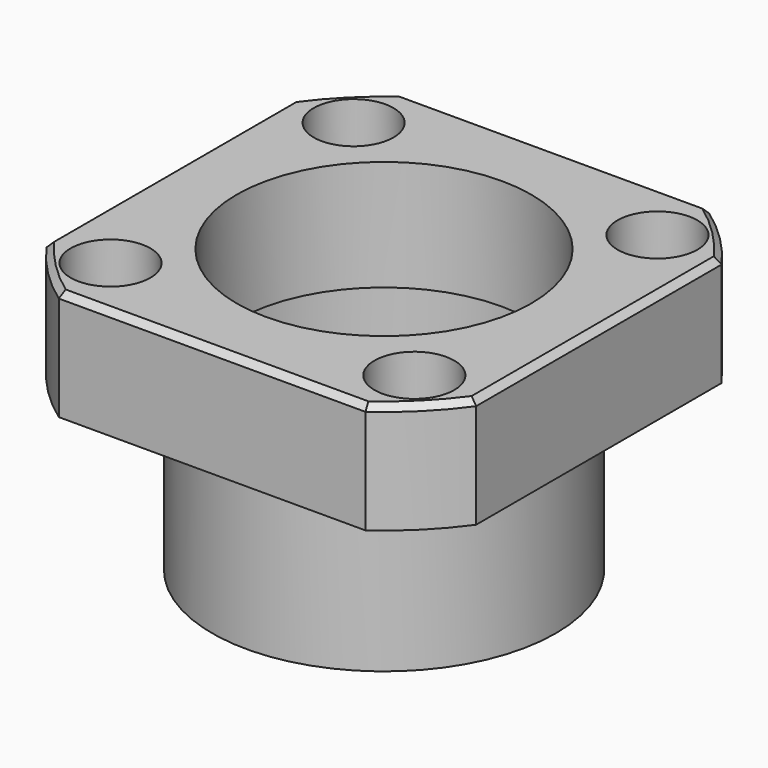
from build123d import *

# Parameters (mm, degrees)
F0_W           = 35
F0_H           = 35
F1_DEPTH       = 9
F2_R           = 14
F2_R_2         = 13
F3_DEPTH       = 14
F4_DEPTH       = 9.001
F6_D           = 3.4
F6_CBORE_D     = 6.5
F6_CBORE_DEPTH = 4
F7_DEPTH       = 23.001
F8_R           = 14
F8_R_2         = 12
F9_DEPTH       = 9
F10_SIZE       = 0.5


with BuildPart() as f1:
    # F0 (on Top) → F1 (new body)
    with BuildSketch(Plane.XY):
        Rectangle(F0_W, F0_H)
    extrude(amount=F1_DEPTH)

    # F2 (on face) → F3 (join)
    with BuildSketch(Plane(origin=(0, 0, 0), x_dir=(1, 0, 0), z_dir=(0, 0, -1))):
        Circle(F2_R)
        Circle(F2_R_2, mode=Mode.SUBTRACT)
    extrude(amount=F3_DEPTH)

    # F4 (cut, through all): a face of the model
    f4_faces = [f1.faces().sort_by_distance(p)[0] for p in [
        (0, 0, 0),
    ]]
    extrude(f4_faces, amount=-F4_DEPTH, mode=Mode.SUBTRACT)

    # F6 (through all)
    with Locations(Plane.XY.offset(9)):
        with Locations((-12.3743686708, 12.3743686708), (12.3743686708, 12.3743686708), (-12.3743686708, -12.3743686708), (12.3743686708, -12.3743686708)):
            CounterBoreHole(F6_D / 2, F6_CBORE_D / 2, F6_CBORE_DEPTH)

    # F5 (on face) → F7 (cut, through all)
    with BuildSketch(Plane.XY.offset(9)):
        with BuildLine():
            ThreePointArc((12.4899959968, 17.5), (15.2027957955, 15.2027957955), (17.5, 12.4899959968))
            Line((17.5, 12.4899959968), (17.5, 17.5))
            Line((17.5, 17.5), (12.4899959968, 17.5))
        make_face()
        with BuildLine():
            ThreePointArc((-17.5, 12.4899959968), (-15.2027957955, 15.2027957955), (-12.4899959968, 17.5))
            Line((-12.4899959968, 17.5), (-17.5, 17.5))
            Line((-17.5, 17.5), (-17.5, 12.4899959968))
        make_face()
        with BuildLine():
            Line((-17.5, -17.5), (-12.4899959968, -17.5))
            ThreePointArc((-12.4899959968, -17.5), (-15.2027957955, -15.2027957955), (-17.5, -12.4899959968))
            Line((-17.5, -12.4899959968), (-17.5, -17.5))
        make_face()
        with BuildLine():
            Line((17.5, -17.5), (17.5, -12.4899959968))
            ThreePointArc((17.5, -12.4899959968), (15.2027957955, -15.2027957955), (12.4899959968, -17.5))
            Line((12.4899959968, -17.5), (17.5, -17.5))
        make_face()
    extrude(amount=-F7_DEPTH, mode=Mode.SUBTRACT)

    # F8 (on face) → F9 (join)
    with BuildSketch(Plane(origin=(0, 0, 0), x_dir=(1, 0, 0), z_dir=(0, 0, -1))):
        Circle(F8_R)
        Circle(F8_R_2, mode=Mode.SUBTRACT)
    extrude(amount=-F9_DEPTH)

    # F10
    f10_edges = [f1.edges().sort_by_distance(p)[0] for p in [
        (0, -17.5, 9),
        (-15.202796, -15.202796, 9),
        (0, 17.5, 9),
        (15.202796, 15.202796, 9),
        (17.5, 0, 9),
        (-15.202796, 15.202796, 9),
        (15.202796, -15.202796, 9),
        (-17.5, 0, 9),
    ]]
    chamfer(f10_edges, length=F10_SIZE)


solid = f1.part
